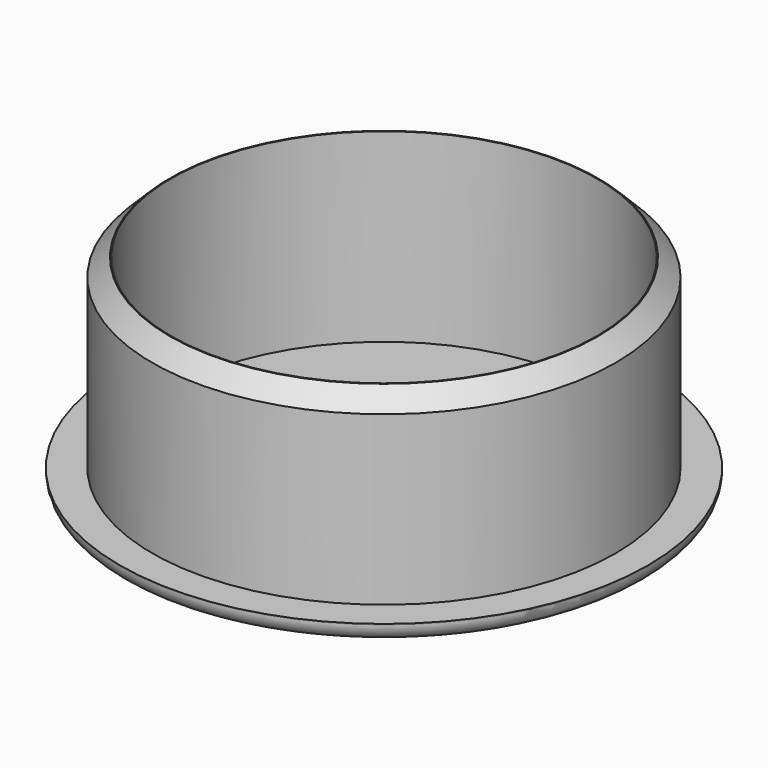
from build123d import *

# Parameters (mm, degrees)
SKETCH_R      = 28.5
PAD_DEPTH     = 2
SKETCH001_R   = 25
SKETCH001_R_2 = 23
PAD001_DEPTH  = 20
CHAMFER_SIZE  = 1.9
FILLET_R      = 1.9


with BuildPart() as part:
    # Sketch → Pad (new body)
    with BuildSketch(Plane.XY):
        Circle(SKETCH_R)
    extrude(amount=PAD_DEPTH)

    # Sketch001 (on Face3 of Pad) → Pad001 (join)
    with BuildSketch(Plane.XY.offset(2)):
        Circle(SKETCH001_R)
        Circle(SKETCH001_R_2, mode=Mode.SUBTRACT)
    extrude(amount=PAD001_DEPTH)

    # Chamfer
    chamfer_edges = [part.edges().sort_by_distance(p)[0] for p in [
        (-25, 0, 22),
    ]]
    chamfer(chamfer_edges, length=CHAMFER_SIZE)

    # Fillet
    fillet_edges = [part.edges().sort_by_distance(p)[0] for p in [
        (-28.5, 0, 0),
    ]]
    fillet(fillet_edges, radius=FILLET_R)


solid = part.part
